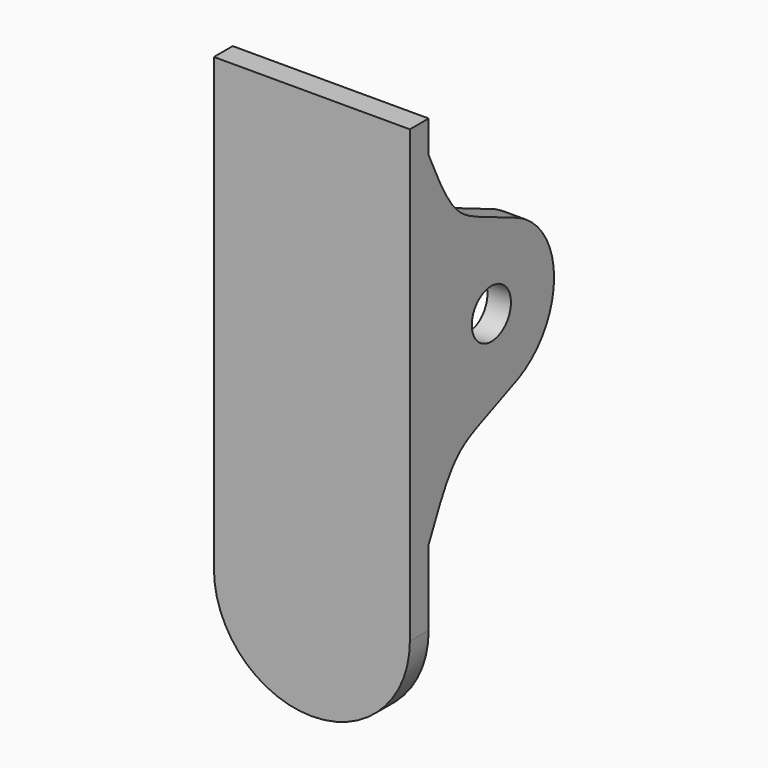
from build123d import *

# Parameters (mm, degrees)
F1_DEPTH = 1.524
F3_DEPTH = 1.524
F6_D     = 3.175


with BuildPart() as f1:
    # F0 (on Front) → F1 (new body)
    with BuildSketch(Plane.XZ):
        with BuildLine():
            Line((6.35, 17.78), (-6.35, 17.78))
            Line((-6.35, 17.78), (-6.35, -11.43))
            ThreePointArc((-6.35, -11.43), (-4.4901280605, -15.9201280605), (0, -17.78))
            ThreePointArc((0, -17.78), (4.4901280605, -15.9201280605), (6.35, -11.43))
            Line((6.35, -11.43), (6.35, 17.78))
        make_face()
    extrude(amount=F1_DEPTH)

    # F2 (on face) → F3 (join)
    with BuildSketch(Plane.YZ.offset(6.35)):
        with BuildLine():
            add(Edge.make_bspline(
                [(0, -6.5310765533), (2.3925540429, -1.2585692564), (2.3925540429, -2.2239157952), (7.2943206633, 0)],
                knots=[0, 0, 0, 0, 9.7909179796, 9.7909179796, 9.7909179796, 9.7909179796], degree=3))
            ThreePointArc((7.2943206633, 0), (10.16, 4.572), (7.2943206633, 9.144))
            add(Edge.make_bspline(
                [(0, 15.6750765533), (2.3925540429, 10.4025692564), (2.3925540429, 11.3679157952), (7.2943206633, 9.144)],
                knots=[0, 0, 0, 0, 9.7909179796, 9.7909179796, 9.7909179796, 9.7909179796], degree=3))
            Line((0, 15.6750765533), (0, -6.5310765533))
        make_face()
    extrude(amount=-F3_DEPTH)

    # F4: F1 across plane


with BuildPart() as f1_1:
    add(f1.part)
    add(f1.part.mirror(Plane.YZ))

    # F6 (through all)
    with Locations(Plane.YZ.offset(6.35)):
        with Locations((5.08, 4.572)):
            Hole(F6_D / 2)


solid = f1_1.part
